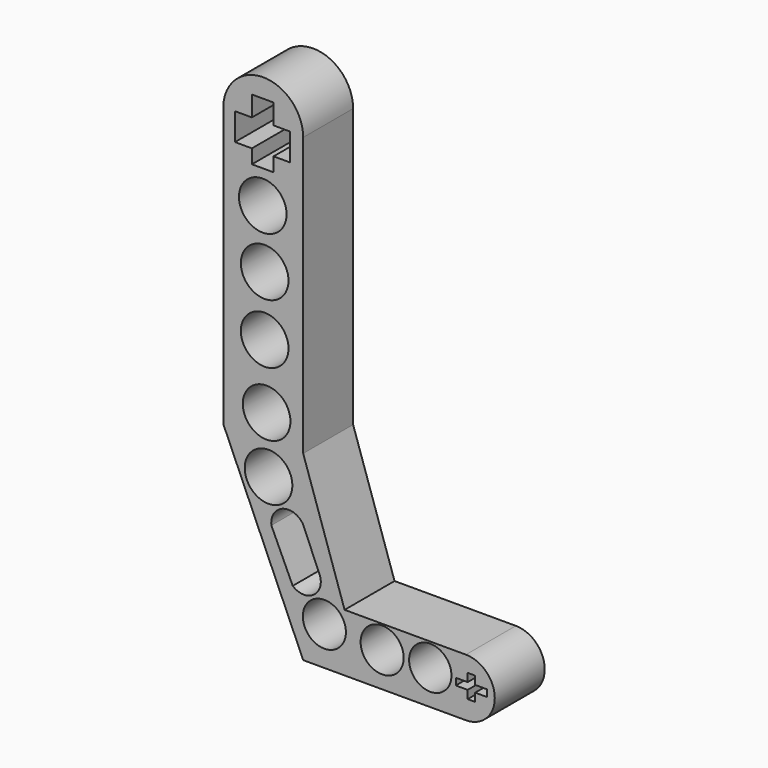
from build123d import *

# Parameters (mm, degrees)
F1_DEPTH = 6.35
F2_W     = 2.2056519679
F2_H     = 1.4280619276
F2_H_2   = 2.76814439
F2_W_2   = 1.6606743359
F2_W_3   = 1.7216736962
F2_H_3   = 2.0531332773
F3_DEPTH = 25.4
F4_R     = 2.4226901475
F4_R_2   = 2.1898139235
F4_R_3   = 2.1544927731
F5_DEPTH = 25.4
F7_DEPTH = 25.4
F8_W     = 0.762
F8_H     = 0.8323322826
F8_H_2   = 0.6916765124
F8_W_2   = 1.2084901007
F9_DEPTH = 25.4


with BuildPart() as f1:
    # F0 (on Front) → F1 (new body)
    with BuildSketch(Plane.XZ):
        with BuildLine():
            Line((-8.1283105537, 28.4980535507), (-8.1283105537, 0))
            Line((-8.1283105537, 0), (0, -18.5090452433))
            Line((0, -18.5090452433), (0, 0))
            Line((0, 0), (0, 28.302192688))
            ThreePointArc((0, 28.302192688), (-3.9685561641, 32.3675276661), (-8.1283105537, 28.4980535507))
        make_face()
        with BuildLine():
            Line((0, 0), (0, -18.5090452433))
            Line((0, -18.5090452433), (16.5504161268, -18.5090452433))
            ThreePointArc((16.5504161268, -18.5090452433), (19.4883598015, -15.5711015686), (16.5504161268, -12.633157894))
            Line((16.5504161268, -12.633157894), (4.2110523209, -12.633157894))
            Line((4.2110523209, -12.633157894), (0, 0))
        make_face()
    extrude(amount=F1_DEPTH)

    # F2 (on Front) → F3 (cut)
    with BuildSketch(Plane.XZ):
        with Locations((-4.1150925963, 24.9122383648)):
            Rectangle(F2_W, F2_H)
        with Locations((-4.1150925963, 27.0103415236)):
            Rectangle(F2_W, F2_H_2)
        with Locations((-2.1819294444, 27.0103415236)):
            Rectangle(F2_W_2, F2_H_2)
        with Locations((-6.0787554284, 27.0103415236)):
            Rectangle(F2_W_3, F2_H_2)
        with Locations((-4.1150925963, 29.4209803573)):
            Rectangle(F2_W, F2_H_3)
    extrude(amount=F3_DEPTH, mode=Mode.SUBTRACT)

    # F4 (on Front) → F5 (cut)
    with BuildSketch(Plane.XZ):
        with Locations((-4.1131214239, 20.8593998104)):
            Circle(F4_R)
        with Locations((-3.9172577672, 14.9835133925)):
            Circle(F4_R)
        with Locations((-3.9172577672, 8.9117623866)):
            Circle(F4_R)
        with Locations((-3.7213957403, 2.4482863955)):
            Circle(F4_R)
        with Locations((-3.5255320836, -3.2317379955)):
            Circle(F4_R)
        with Locations((2.154491609, -14.5917870104)):
            Circle(F4_R_2)
        with Locations((8.030379191, -14.9835133925)):
            Circle(F4_R_2)
        with Locations((12.9269538447, -14.9835133925)):
            Circle(F4_R_3)
    extrude(amount=F5_DEPTH, mode=Mode.SUBTRACT)

    # F6 (on Front) → F7 (cut)
    with BuildSketch(Plane.XZ):
        with BuildLine():
            ThreePointArc((0, -6.3673276454), (-2.0752432977, -5.6200849272), (-3.2373126596, -7.4948119))
            Line((-3.2373126596, -7.4948119), (-1.0640458204, -12.2008332983))
            ThreePointArc((-1.0640458204, -12.2008332983), (0.9608741924, -12.3759405779), (1.7464946723, -10.5014368892))
            Line((1.7464946723, -10.5014368892), (0, -6.3673276454))
        make_face()
    extrude(amount=F7_DEPTH, mode=Mode.SUBTRACT)

    # F8 (on Front) → F9 (cut)
    with BuildSketch(Plane.XZ):
        with Locations((17.1117875725, -16.1442225721)):
            Rectangle(F8_W, F8_H)
        with Locations((17.1117875725, -15.3822181746)):
            Rectangle(F8_W, F8_H_2)
        with Locations((18.0970326229, -15.3822181746)):
            Rectangle(F8_W_2, F8_H_2)
        with Locations((16.1265425221, -15.3822181746)):
            Rectangle(F8_W_2, F8_H_2)
        with Locations((17.1117875725, -14.6202137772)):
            Rectangle(F8_W, F8_H)
    extrude(amount=F9_DEPTH, mode=Mode.SUBTRACT)


solid = f1.part
